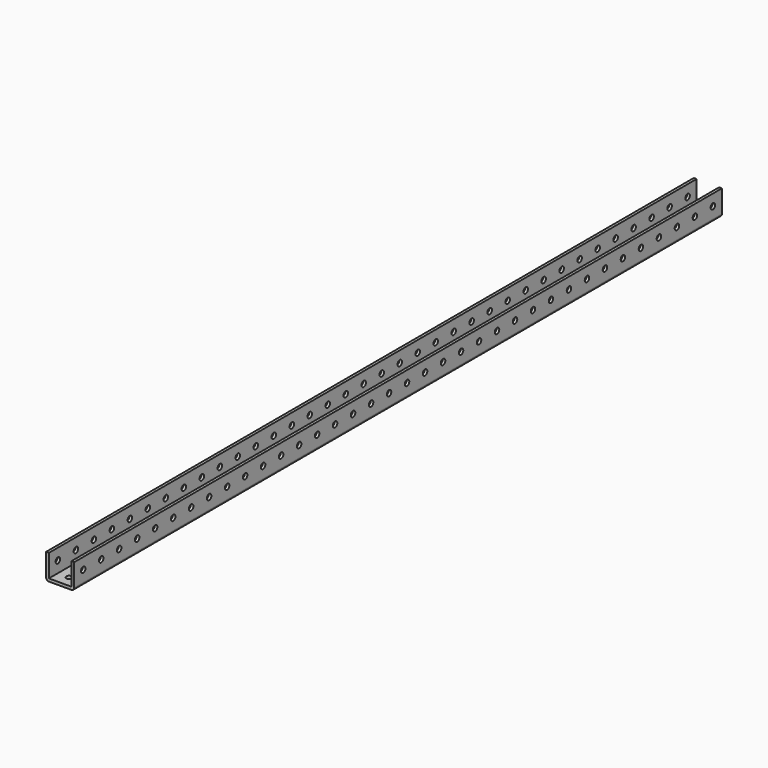
from build123d import *

# Parameters (mm, degrees)
F1_DEPTH = 914.4
F2_R     = 3.175
F3_DEPTH = 28.576
F4_R     = 3.175
F5_DEPTH = 31.751


with BuildPart() as f1:
    # F0 (on Front) → F1 (new body)
    with BuildSketch(Plane.XZ):
        with BuildLine():
            Line((-12.7, -14.2875), (12.7, -14.2875))
            ThreePointArc((12.7, -14.2875), (14.945064, -13.357564), (15.875, -11.1125))
            Line((15.875, -11.1125), (15.875, 14.2875))
            Line((15.875, 14.2875), (12.7, 14.2875))
            Line((12.7, 14.2875), (12.7, -11.1125))
            Line((12.7, -11.1125), (-12.7, -11.1125))
            Line((-12.7, -11.1125), (-12.7, 14.2875))
            Line((-12.7, 14.2875), (-15.875, 14.2875))
            Line((-15.875, 14.2875), (-15.875, -11.1125))
            ThreePointArc((-15.875, -11.1125), (-14.945064, -13.357564), (-12.7, -14.2875))
        make_face()
    extrude(amount=F1_DEPTH)

    # F2 (on face) → F3 (cut, through all)
    with BuildSketch(Plane(origin=(0, 0, -14.2875), x_dir=(1, 0, 0), z_dir=(0, 0, -1))):
        with Locations((0, 12.7)):
            Circle(F2_R)
        with Locations((0, 38.1)):
            Circle(F2_R)
        with Locations((0, 63.5)):
            Circle(F2_R)
        with Locations((0, 88.9)):
            Circle(F2_R)
        with Locations((0, 114.3)):
            Circle(F2_R)
        with Locations((0, 139.7)):
            Circle(F2_R)
        with Locations((0, 165.1)):
            Circle(F2_R)
        with Locations((0, 190.5)):
            Circle(F2_R)
        with Locations((0, 215.9)):
            Circle(F2_R)
        with Locations((0, 241.3)):
            Circle(F2_R)
        with Locations((0, 266.7)):
            Circle(F2_R)
        with Locations((0, 292.1)):
            Circle(F2_R)
        with Locations((0, 317.5)):
            Circle(F2_R)
        with Locations((0, 342.9)):
            Circle(F2_R)
        with Locations((0, 368.3)):
            Circle(F2_R)
        with Locations((0, 393.7)):
            Circle(F2_R)
        with Locations((0, 419.1)):
            Circle(F2_R)
        with Locations((0, 444.5)):
            Circle(F2_R)
        with Locations((0, 469.9)):
            Circle(F2_R)
        with Locations((0, 495.3)):
            Circle(F2_R)
        with Locations((0, 520.7)):
            Circle(F2_R)
        with Locations((0, 546.1)):
            Circle(F2_R)
        with Locations((0, 571.5)):
            Circle(F2_R)
        with Locations((0, 596.9)):
            Circle(F2_R)
        with Locations((0, 622.3)):
            Circle(F2_R)
        with Locations((0, 647.7)):
            Circle(F2_R)
        with Locations((0, 673.1)):
            Circle(F2_R)
        with Locations((0, 698.5)):
            Circle(F2_R)
        with Locations((0, 723.9)):
            Circle(F2_R)
        with Locations((0, 749.3)):
            Circle(F2_R)
        with Locations((0, 774.7)):
            Circle(F2_R)
        with Locations((0, 800.1)):
            Circle(F2_R)
        with Locations((0, 825.5)):
            Circle(F2_R)
        with Locations((0, 850.9)):
            Circle(F2_R)
        with Locations((0, 876.3)):
            Circle(F2_R)
        with Locations((0, 901.7)):
            Circle(F2_R)
    extrude(amount=-F3_DEPTH, mode=Mode.SUBTRACT)

    # F4 (on face) → F5 (cut, through all)
    with BuildSketch(Plane(origin=(-15.875, 0, 0), x_dir=(0, -1, 0), z_dir=(-1, 0, 0))):
        with Locations((12.700011, 1.5875)):
            Circle(F4_R)
        with Locations((38.100011, 1.5875)):
            Circle(F4_R)
        with Locations((63.500011, 1.5875)):
            Circle(F4_R)
        with Locations((88.900011, 1.5875)):
            Circle(F4_R)
        with Locations((114.300011, 1.5875)):
            Circle(F4_R)
        with Locations((139.700011, 1.5875)):
            Circle(F4_R)
        with Locations((165.100011, 1.5875)):
            Circle(F4_R)
        with Locations((190.500011, 1.5875)):
            Circle(F4_R)
        with Locations((215.900011, 1.5875)):
            Circle(F4_R)
        with Locations((241.300011, 1.5875)):
            Circle(F4_R)
        with Locations((266.700011, 1.5875)):
            Circle(F4_R)
        with Locations((292.100011, 1.5875)):
            Circle(F4_R)
        with Locations((317.500011, 1.5875)):
            Circle(F4_R)
        with Locations((342.900011, 1.5875)):
            Circle(F4_R)
        with Locations((368.300011, 1.5875)):
            Circle(F4_R)
        with Locations((393.700011, 1.5875)):
            Circle(F4_R)
        with Locations((419.100011, 1.5875)):
            Circle(F4_R)
        with Locations((444.500011, 1.5875)):
            Circle(F4_R)
        with Locations((469.900011, 1.5875)):
            Circle(F4_R)
        with Locations((495.300011, 1.5875)):
            Circle(F4_R)
        with Locations((520.700011, 1.5875)):
            Circle(F4_R)
        with Locations((546.100011, 1.5875)):
            Circle(F4_R)
        with Locations((571.500011, 1.5875)):
            Circle(F4_R)
        with Locations((596.900011, 1.5875)):
            Circle(F4_R)
        with Locations((622.300011, 1.5875)):
            Circle(F4_R)
        with Locations((647.700011, 1.5875)):
            Circle(F4_R)
        with Locations((673.100011, 1.5875)):
            Circle(F4_R)
        with Locations((698.500011, 1.5875)):
            Circle(F4_R)
        with Locations((723.900011, 1.5875)):
            Circle(F4_R)
        with Locations((749.300011, 1.5875)):
            Circle(F4_R)
        with Locations((774.700011, 1.5875)):
            Circle(F4_R)
        with Locations((800.100011, 1.5875)):
            Circle(F4_R)
        with Locations((825.500011, 1.5875)):
            Circle(F4_R)
        with Locations((850.900011, 1.5875)):
            Circle(F4_R)
        with Locations((876.300011, 1.5875)):
            Circle(F4_R)
        with Locations((901.700011, 1.5875)):
            Circle(F4_R)
    extrude(amount=-F5_DEPTH, mode=Mode.SUBTRACT)


solid = f1.part
